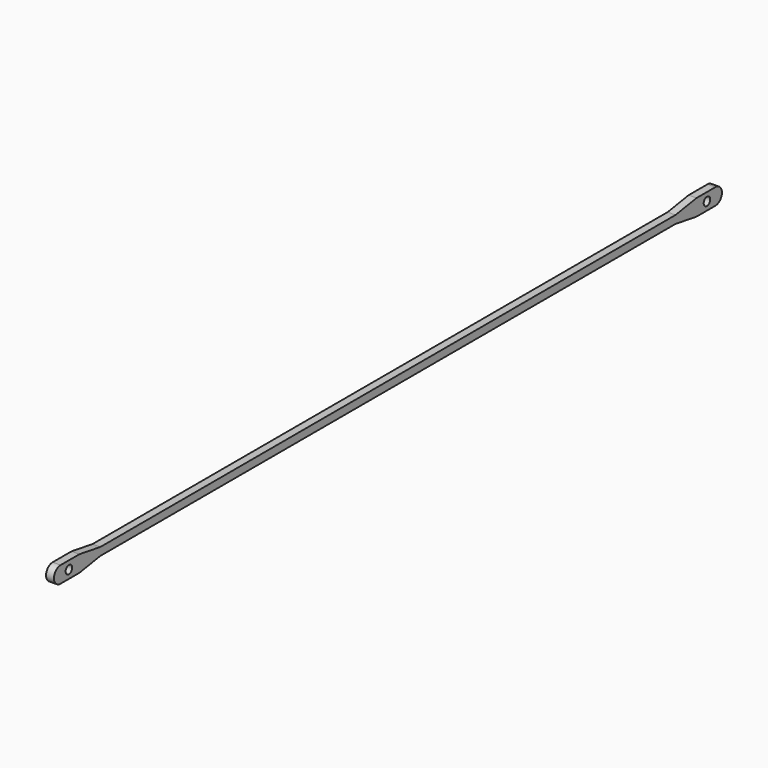
from build123d import *

# Parameters (mm, degrees)
F0_R     = 1.5625
F1_DEPTH = 3


with BuildPart() as f1:
    # F0 (on Right) → F1 (new body)
    with BuildSketch(Plane.YZ):
        with BuildLine():
            Line((210.257331, 4.625), (201.257331, 4.625))
            Line((201.257331, 4.625), (191.257331, 3))
            Line((191.257331, 3), (-82.880796, 3))
            Line((-82.880796, 3), (-92.880796, 4.625))
            Line((-92.880796, 4.625), (-101.880796, 4.625))
            ThreePointArc((-101.880796, 4.625), (-105.005796, 1.5), (-101.880796, -1.625))
            Line((-101.880796, -1.625), (-92.880796, -1.625))
            Line((-92.880796, -1.625), (-82.880796, 0))
            Line((-82.880796, 0), (191.257331, 0))
            Line((191.257331, 0), (201.257331, -1.625))
            Line((201.257331, -1.625), (210.257331, -1.625))
            ThreePointArc((210.257331, -1.625), (213.382331, 1.5), (210.257331, 4.625))
        make_face()
        with Locations((-97.880796, 1.5)):
            Circle(F0_R, mode=Mode.SUBTRACT)
        with Locations((206.257331, 1.5)):
            Circle(F0_R, mode=Mode.SUBTRACT)
    extrude(amount=F1_DEPTH)


solid = f1.part
